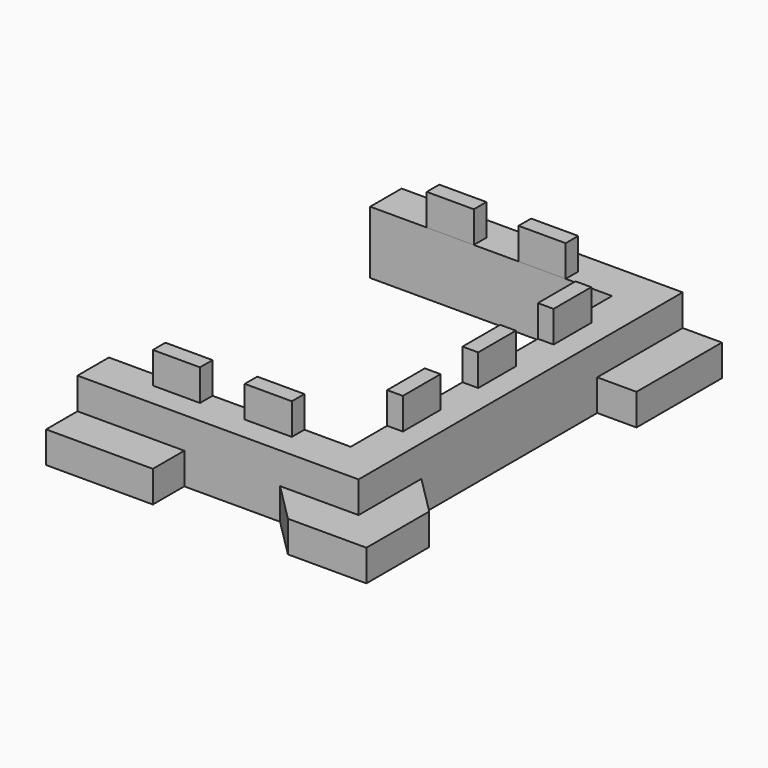
from build123d import *

# Parameters (mm, degrees)
PAD_DEPTH               = 20
POCKET_DEPTH            = 10
PAD001_DEPTH            = 10
POCKET001_DEPTH         = 15.001004
PAD002_DEPTH            = 10
POCKET002_DEPTH         = 15.001004
PAD004_DEPTH            = 10
POCKET004_DEPTH         = 15.001004
BODY005_PLACEMENT_ANGLE = 180
PAD005_DEPTH            = 10
POCKET005_DEPTH         = 15.001
BODY006_PLACEMENT_ANGLE = 180
PAD006_DEPTH            = 10
POCKET006_DEPTH         = 15.001004
BODY007_PLACEMENT_ANGLE = 90
PAD007_DEPTH            = 10
POCKET007_DEPTH         = 15.001004
BODY008_PLACEMENT_ANGLE = 90
PAD008_DEPTH            = 10
POCKET008_DEPTH         = 15.001004
BODY009_PLACEMENT_ANGLE = 90


with BuildPart() as obj1:
    # Sketch → Pad (new body)
    with BuildSketch(Plane.XY):
        Polygon((-77, 116.5), (12.5, 116.5), (25, 116.5), (25, 82.5), (12.5, 82.5), (12.5, 12.5), (25, 0), (25, -25), (0, -25), (-12.5, -12.5), (-43, -12.5), (-43, -25), (-77, -25), (-77, -12.5), (-77, 0), (0, 0), (0, 104), (-77, 104), align=None)
    extrude(amount=PAD_DEPTH)

    # Sketch001 (on Face20 of Pad) → Pocket (cut)
    with BuildSketch(Plane.XY.offset(20)):
        Polygon((-77, -12.5), (12.5, -12.5), (12.5, 116.5), (25, 116.5), (25, -25), (-77, -25), align=None)
    extrude(amount=-POCKET_DEPTH, mode=Mode.SUBTRACT)


with BuildPart() as obj1_1:
    # Body placement: moved
    add(obj1.part.moved(Location((3, 0, 0))))


with BuildPart() as obj2:
    # Sketch002 → Pad001 (new body)
    with BuildSketch(Plane.XY):
        Polygon((4, -35), (19, -35), (19, -40), (3.999996, -40), align=None)
    extrude(amount=PAD001_DEPTH)

    # Sketch003 (on Face4 of Pad001) → Pocket001 (cut, through all)
    with BuildSketch(Plane(origin=(4.000031, -4e-06, 0), x_dir=(-1e-06, -1, 0), z_dir=(-1, 1e-06, 0))):
        Polygon((-44, 10), (-47, 0), (-47, 10), align=None)
    extrude(amount=-POCKET001_DEPTH, mode=Mode.SUBTRACT)


with BuildPart() as obj2_1:
    # Body002 placement: moved
    add(obj2.part.moved(Location((-60, 35, 20))))


with BuildPart() as obj3:
    # Sketch004 → Pad002 (new body)
    with BuildSketch(Plane.XY):
        Polygon((4, -35), (19, -35), (19, -40), (3.999996, -40), align=None)
    extrude(amount=PAD002_DEPTH)

    # Sketch005 (on Face4 of Pad002) → Pocket002 (cut, through all)
    with BuildSketch(Plane(origin=(4.000031, -4e-06, 0), x_dir=(-1e-06, -1, 0), z_dir=(-1, 1e-06, 0))):
        Polygon((-44, 10), (-47, 0), (-47, 10), align=None)
    extrude(amount=-POCKET002_DEPTH, mode=Mode.SUBTRACT)


with BuildPart() as obj3_1:
    # Body003 placement: moved
    add(obj3.part.moved(Location((-30.75, 35, 20))))


with BuildPart() as obj4:
    # Sketch008 → Pad004 (new body)
    with BuildSketch(Plane.XY):
        Polygon((4, -35), (19, -35), (19, -40), (3.999996, -40), align=None)
    extrude(amount=PAD004_DEPTH)

    # Sketch009 (on Face4 of Pad004) → Pocket004 (cut, through all)
    with BuildSketch(Plane(origin=(4.000031, -4e-06, 0), x_dir=(-1e-06, -1, 0), z_dir=(-1, 1e-06, 0))):
        Polygon((-44, 10), (-47, 0), (-47, 10), align=None)
    extrude(amount=-POCKET004_DEPTH, mode=Mode.SUBTRACT)


with BuildPart() as obj4_1:
    # Body005 placement: moved
    add(obj4.part.moved(Location((-7.75, 69, 20))).rotate(Axis((-7.75, 69, 20), (0, 0, 1)), BODY005_PLACEMENT_ANGLE))


with BuildPart() as obj5:
    # Sketch010 → Pad005 (new body)
    with BuildSketch(Plane.XY):
        Polygon((4, -35), (19, -35), (19, -40), (4.000019, -40), align=None)
    extrude(amount=PAD005_DEPTH)

    # Sketch011 (on Face4 of Pad005) → Pocket005 (cut, through all)
    with BuildSketch(Plane(origin=(3.999867, 1.5e-05, 0), x_dir=(4e-06, -1, 0), z_dir=(-1, -4e-06, 0))):
        Polygon((-44, 10), (-47, 0), (-47, 10), align=None)
    extrude(amount=-POCKET005_DEPTH, mode=Mode.SUBTRACT)


with BuildPart() as obj5_1:
    # Body006 placement: moved
    add(obj5.part.moved(Location((-37, 69, 20))).rotate(Axis((-37, 69, 20), (0, 0, 1)), BODY006_PLACEMENT_ANGLE))


with BuildPart() as obj6:
    # Sketch012 → Pad006 (new body)
    with BuildSketch(Plane.XY):
        Polygon((4, -35), (19, -35), (19, -40), (3.999996, -40), align=None)
    extrude(amount=PAD006_DEPTH)

    # Sketch013 (on Face4 of Pad006) → Pocket006 (cut, through all)
    with BuildSketch(Plane(origin=(4.000031, -4e-06, 0), x_dir=(-1e-06, -1, 0), z_dir=(-1, 1e-06, 0))):
        Polygon((-44, 10), (-47, 0), (-47, 10), align=None)
    extrude(amount=-POCKET006_DEPTH, mode=Mode.SUBTRACT)


with BuildPart() as obj6_1:
    # Body007 placement: moved
    add(obj6.part.moved(Location((-32, 10.5, 20))).rotate(Axis((-32, 10.5, 20), (0, 0, 1)), BODY007_PLACEMENT_ANGLE))


with BuildPart() as obj7:
    # Sketch014 → Pad007 (new body)
    with BuildSketch(Plane.XY):
        Polygon((4, -35), (19, -35), (19, -40), (3.999996, -40), align=None)
    extrude(amount=PAD007_DEPTH)

    # Sketch015 (on Face4 of Pad007) → Pocket007 (cut, through all)
    with BuildSketch(Plane(origin=(4.000031, -4e-06, 0), x_dir=(-1e-06, -1, 0), z_dir=(-1, 1e-06, 0))):
        Polygon((-44, 10), (-47, 0), (-47, 10), align=None)
    extrude(amount=-POCKET007_DEPTH, mode=Mode.SUBTRACT)


with BuildPart() as obj7_1:
    # Body008 placement: moved
    add(obj7.part.moved(Location((-32, 40.5, 20))).rotate(Axis((-32, 40.5, 20), (0, 0, 1)), BODY008_PLACEMENT_ANGLE))


with BuildPart() as obj8:
    # Sketch016 → Pad008 (new body)
    with BuildSketch(Plane.XY):
        Polygon((4, -35), (19, -35), (19, -40), (3.999996, -40), align=None)
    extrude(amount=PAD008_DEPTH)

    # Sketch017 (on Face4 of Pad008) → Pocket008 (cut, through all)
    with BuildSketch(Plane(origin=(4.000031, -4e-06, 0), x_dir=(-1e-06, -1, 0), z_dir=(-1, 1e-06, 0))):
        Polygon((-44, 10), (-47, 0), (-47, 10), align=None)
    extrude(amount=-POCKET008_DEPTH, mode=Mode.SUBTRACT)


with BuildPart() as obj8_1:
    # Body009 placement: moved
    add(obj8.part.moved(Location((-32, 70.5, 20))).rotate(Axis((-32, 70.5, 20), (0, 0, 1)), BODY009_PLACEMENT_ANGLE))


solid = Compound([obj1_1.part, obj2_1.part, obj3_1.part, obj4_1.part, obj5_1.part, obj6_1.part, obj7_1.part, obj8_1.part])
